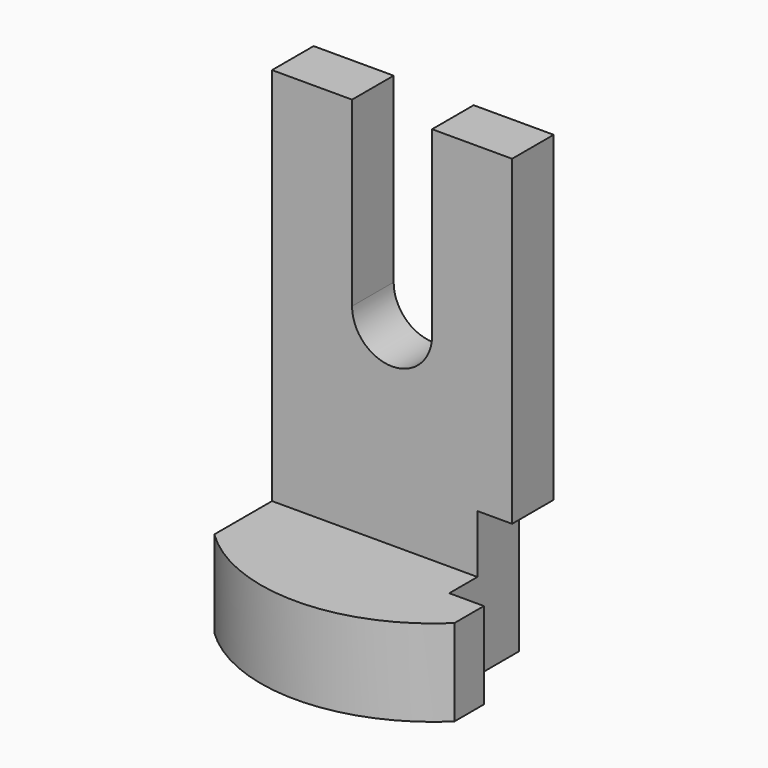
from build123d import *

# Parameters (mm, degrees)
F1_DEPTH = 12.7
F3_DEPTH = 7.62
F4_W     = 12.783553
F4_H     = 21.205658
F5_DEPTH = 5.08


with BuildPart() as f1:
    # F0 (on Top) → F1 (new body)
    with BuildSketch(Plane.XY):
        with BuildLine():
            Line((17.596183, -18.197764), (17.596183, 0))
            Line((17.596183, 0), (-17.596183, 0))
            Line((-17.596183, 0), (-17.596183, -18.197764))
            ThreePointArc((-17.596183, -18.197764), (0, -25.313717), (17.596183, -18.197764))
        make_face()
    extrude(amount=F1_DEPTH)

    # F2 (on Front) → F3 (join)
    with BuildSketch(Plane.XZ):
        with BuildLine():
            Line((-17.596183, 12.7), (17.596183, 12.7))
            Line((17.596183, 12.7), (17.596183, 68.321375))
            Line((17.596183, 68.321375), (5.865396, 68.321375))
            Line((5.865396, 68.321375), (5.865396, 41.663684))
            ThreePointArc((5.865396, 41.663684), (0, 35.798287), (-5.865396, 41.663684))
            Line((-5.865396, 41.663684), (-5.865396, 68.321375))
            Line((-5.865396, 68.321375), (-17.596183, 68.321375))
            Line((-17.596183, 68.321375), (-17.596183, 12.7))
        make_face()
    extrude(amount=F3_DEPTH)

    # F4 (on face) → F5 (cut)
    with BuildSketch(Plane.YZ.offset(17.596183)):
        with Locations((-6.391776, 10.602829)):
            Rectangle(F4_W, F4_H)
    extrude(amount=-F5_DEPTH, mode=Mode.SUBTRACT)


solid = f1.part
